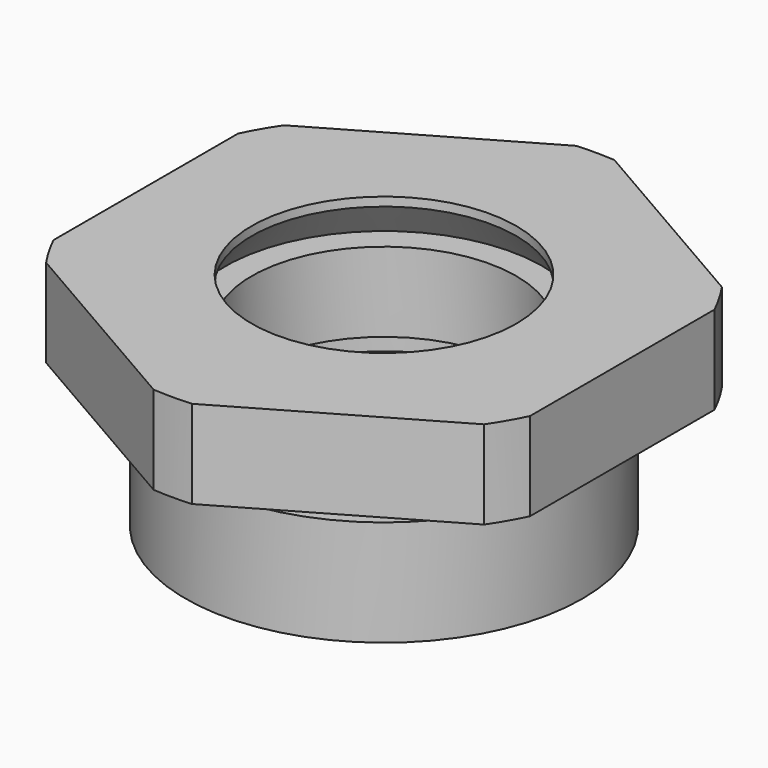
from build123d import *

# Parameters (mm, degrees)
F3_DEPTH = 25


with BuildPart() as f1:
    # F0 (on Front) → F1 (revolve)
    with BuildSketch(Plane.XZ):
        Polygon((15, 5), (15, 0), (22.5, 0), (22.5, 17), (21, 17), (21, 20), (30, 20), (30, 30), (15, 30), (15, 29), (18, 25), (15, 25), (15, 16), (18, 16), (18, 13), (15, 13), (15, 8), (17, 8), (17, 5), align=None)
    revolve(axis=Axis((0, 0, 16.846085), (0, 0, -1)))

    # F2 (on face) → F3 (intersect)
    with BuildSketch(Plane.XY.offset(30)):
        Polygon((0, -31.176915), (27, -15.588457), (27, 15.588457), (0, 31.176915), (-27, 15.588457), (-27, -15.588457), align=None)
    extrude(amount=-F3_DEPTH, mode=Mode.INTERSECT)


solid = f1.part
